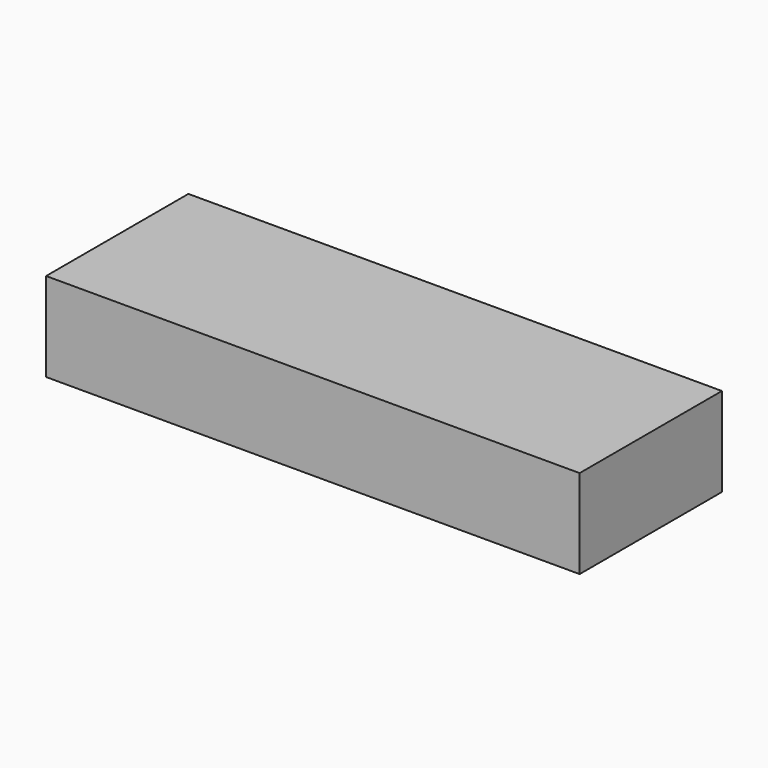
from build123d import *

# Parameters (mm, degrees)
F1_DEPTH = 6.35


with BuildPart() as f1:
    # F0 (on Front) → F1 (new body, symmetric)
    with BuildSketch(Plane.XZ):
        Polygon((0, -3.175), (0, 3.175), (-4.731465, 3.175), (-6.795823, 3.175), (-19.05, 3.175), (-19.05, -3.175), (-16.510323, -3.175), (-14.276679, -3.175), (-10.997938, -3.175), (-7.187938, -3.175), align=None)
        Polygon((19.05, -3.175), (19.05, 3.175), (6.795823, 3.175), (5.494234, 3.175), (4.731465, 3.175), (0, 3.175), (0, -3.175), (5.08, -3.175), (7.187938, -3.175), (10.997938, -3.175), (14.276679, -3.175), (16.510323, -3.175), align=None)
    extrude(amount=F1_DEPTH, both=True)


solid = f1.part
